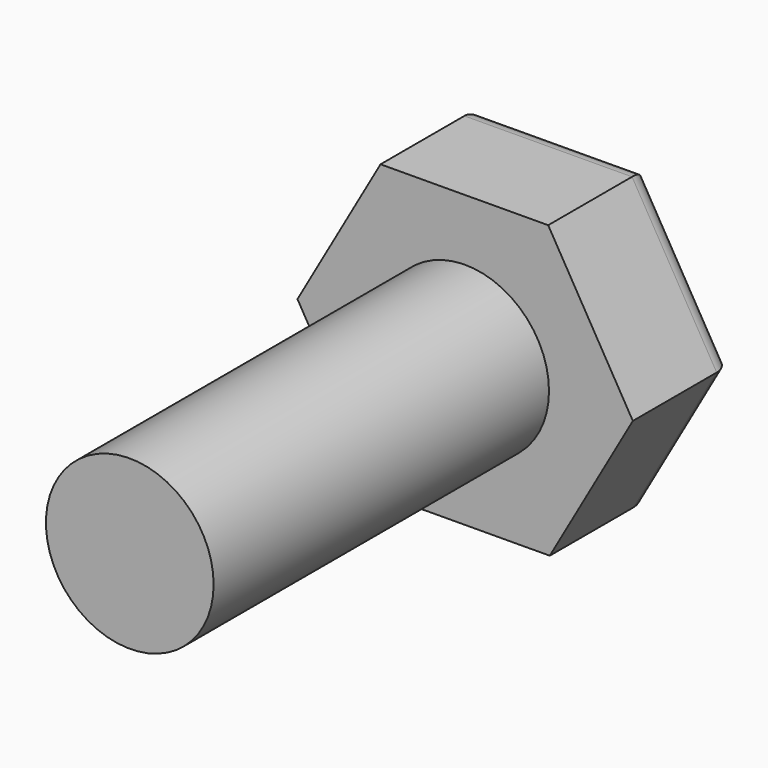
from build123d import *

# Parameters (mm, degrees)
F0_R     = 2
F1_DEPTH = 10
F3_DEPTH = 3
F4_R     = 0.5


with BuildPart() as f1:
    # F0 (on Front) → F1 (new body)
    with BuildSketch(Plane.XZ):
        Circle(F0_R)
    extrude(amount=-F1_DEPTH)

    # F2 (on face) → F3 (join)
    with BuildSketch(Plane(origin=(0, 10, 0), x_dir=(-1, 0, 0), z_dir=(0, 1, 0))):
        Polygon((3.99994, -0.021899), (2.018935, 3.4531), (-1.981005, 3.474999), (-3.99994, 0.021899), (-2.018935, -3.4531), (1.981005, -3.474999), align=None)
    extrude(amount=F3_DEPTH)

    # F4
    f4_edges = [f1.edges().sort_by_distance(p)[0] for p in [
        (-2.990473, 13, -1.748449),
        (-3.009437, 13, 1.715601),
        (-0.018965, 13, 3.46405),
        (2.990473, 13, 1.748449),
        (3.009437, 13, -1.715601),
        (0.018965, 13, -3.46405),
    ]]
    fillet(f4_edges, radius=F4_R)


solid = f1.part
